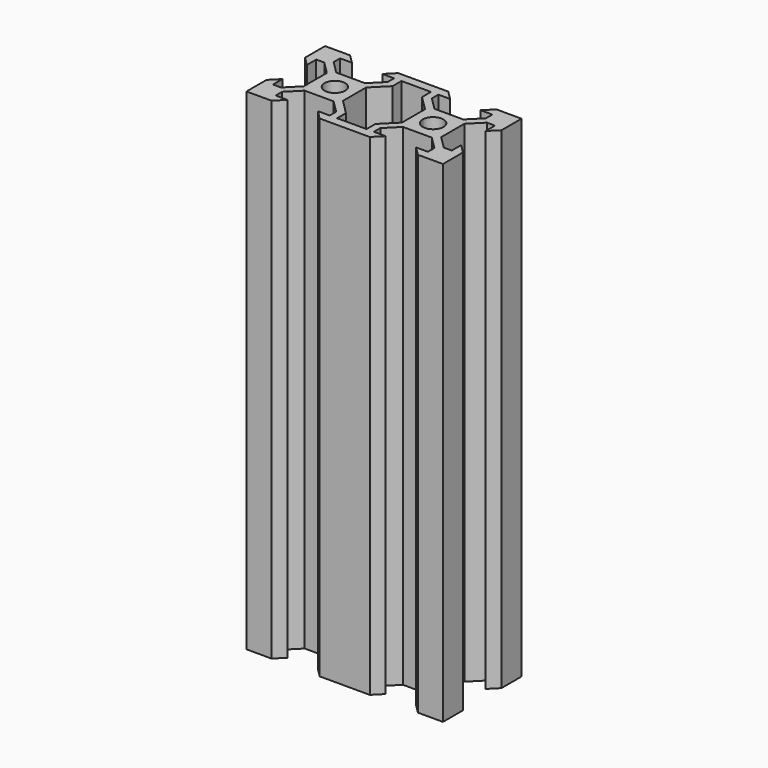
from build123d import *

# Parameters (mm, degrees)
PAD_DEPTH            = 100
PAD_MIRRORED_2_DEPTH = 100


with BuildPart() as part:
    # Sketch → Pad (new body)
    with BuildSketch(Plane.XY):
        with BuildLine():
            Line((0, 10), (5.1, 10))
            Line((5.1, 10), (6.9, 8.2))
            Line((6.9, 8.2), (4.5, 8.2))
            Line((4.5, 8.2), (4.5, 6.56066))
            Line((4.5, 6.56066), (7.06066, 4))
            Line((7.06066, 4), (12.93934, 4))
            Line((12.93934, 4), (15.5, 6.56066))
            Line((15.5, 6.56066), (15.5, 8.2))
            Line((15.5, 8.2), (13.1, 8.2))
            Line((13.1, 8.2), (14.9, 10))
            Line((14.9, 10), (20, 10))
            Line((20, 10), (20, 4.9))
            Line((20, 4.9), (18.2, 3.1))
            Line((18.2, 3.1), (18.2, 5.5))
            Line((18.2, 5.5), (16.56066, 5.5))
            Line((16.56066, 5.5), (14, 2.93934))
            Line((14, 2.93934), (14, 0))
            Line((14, 0), (12.1, 0))
            ThreePointArc((12.1, 0), (10, 2.1), (7.9, 0))
            Line((7.9, 0), (6, 0))
            Line((6, 0), (6, 2.93934))
            Line((6, 2.93934), (3, 5.93934))
            Line((3, 5.93934), (3, 8.2))
            Line((3, 8.2), (0, 8.2))
            Line((0, 10), (0, 8.2))
        make_face()
    pad = extrude(amount=PAD_DEPTH)

    # Sketch Mirrored 2 → Pad Mirrored 2 (add)
    with BuildSketch(Plane(origin=(0, 0, 0), x_dir=(-1, 0, 0), z_dir=(0, 0, -1))):
        with BuildLine():
            Line((0, 10), (5.1, 10))
            Line((5.1, 10), (6.9, 8.2))
            Line((6.9, 8.2), (4.5, 8.2))
            Line((4.5, 8.2), (4.5, 6.56066))
            Line((4.5, 6.56066), (7.06066, 4))
            Line((7.06066, 4), (12.93934, 4))
            Line((12.93934, 4), (15.5, 6.56066))
            Line((15.5, 6.56066), (15.5, 8.2))
            Line((15.5, 8.2), (13.1, 8.2))
            Line((13.1, 8.2), (14.9, 10))
            Line((14.9, 10), (20, 10))
            Line((20, 10), (20, 4.9))
            Line((20, 4.9), (18.2, 3.1))
            Line((18.2, 3.1), (18.2, 5.5))
            Line((18.2, 5.5), (16.56066, 5.5))
            Line((16.56066, 5.5), (14, 2.93934))
            Line((14, 2.93934), (14, 0))
            Line((14, 0), (12.1, 0))
            ThreePointArc((12.1, 0), (10, 2.1), (7.9, 0))
            Line((7.9, 0), (6, 0))
            Line((6, 0), (6, 2.93934))
            Line((6, 2.93934), (3, 5.93934))
            Line((3, 5.93934), (3, 8.2))
            Line((3, 8.2), (0, 8.2))
            Line((0, 10), (0, 8.2))
        make_face()
    pad_mirrored_2 = extrude(amount=-PAD_MIRRORED_2_DEPTH)

    # Mirrored001: Pad, Pad Mirrored 2 across Sketch H_Axis
    add(pad.mirror(Plane.ZX))
    add(pad_mirrored_2.mirror(Plane.ZX))


solid = part.part
